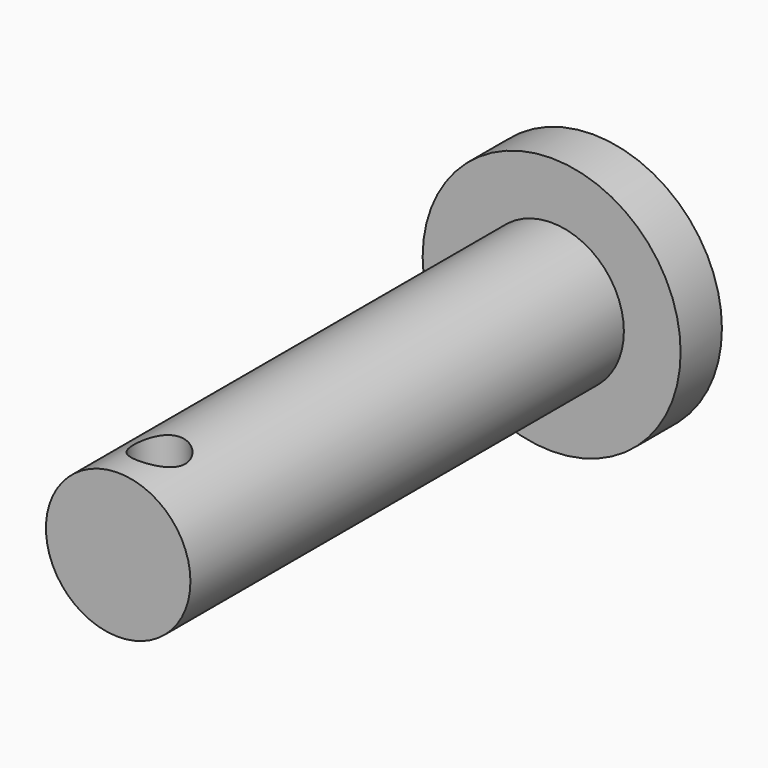
from build123d import *

# Parameters (mm, degrees)
SKETCH017_R       = 1
PAD017_DEPTH      = 10
CYLINDER016_R     = 2.8
CYLINDER016_DEPTH = 21
CYLINDER017_R     = 5
CYLINDER017_DEPTH = 2
CUT014_ROLL_ANGLE = 90


with BuildPart() as pad017:
    # Sketch017 → Pad017 (new body)
    with BuildSketch(Plane(origin=(0, 4.2, 21), x_dir=(1, 0, 0), z_dir=(0, -1, 0))):
        Circle(SKETCH017_R)
    extrude(amount=PAD017_DEPTH)


with BuildPart() as eje001:
    # Cylinder016 → Cylinder016 (new body)
    with BuildSketch(Plane.XY.offset(2)):
        Circle(CYLINDER016_R)
    extrude(amount=CYLINDER016_DEPTH)


with BuildPart() as eje_full1:
    # Cylinder017 → Cylinder017 (new body)
    with BuildSketch(Plane.XY):
        Circle(CYLINDER017_R)
    extrude(amount=CYLINDER017_DEPTH)

    # Fusion009003019: union Eje001
    add(eje001.part)

    # Cut014: cut Pad017
    add(pad017.part, mode=Mode.SUBTRACT)


with BuildPart() as eje_full1_1:
    # Cut014 roll: moved
    add(eje_full1.part.rotate(Axis((0, 0, 0), (1, 0, 0)), CUT014_ROLL_ANGLE))


with BuildPart() as eje_full1_2:
    # Cut014 placement: moved
    add(eje_full1_1.part.moved(Location((14, 13, 8.5))))


solid = eje_full1_2.part
